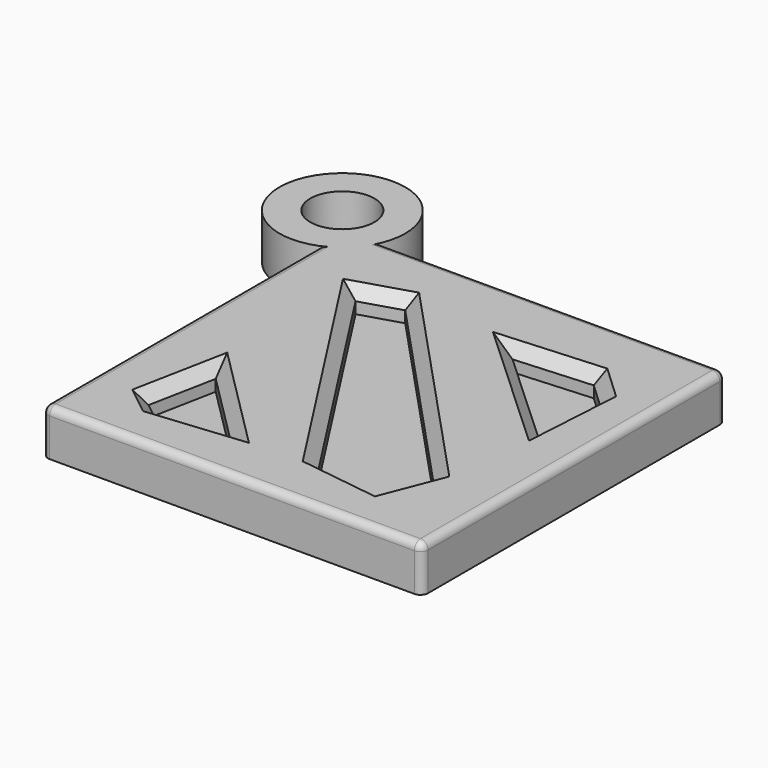
from build123d import *

# Parameters (mm, degrees)
F0_R     = 4.222035
F1_DEPTH = 6
F2_DEPTH = 3
F3_SIZE  = 1.5
F4_R     = 1


with BuildPart() as f1:
    # F0 (on Top) → F1 (new body)
    with BuildSketch(Plane.XY):
        with BuildLine():
            Line((31.328976, 34.585057), (-13.897816, 34.585057))
            ThreePointArc((-13.897816, 34.585057), (-27.394685, 43.53433), (-18.671024, 29.890551))
            Line((-18.671024, 29.890551), (-18.671024, -15.414943))
            Line((-18.671024, -15.414943), (31.328976, -15.414943))
            Line((31.328976, -15.414943), (31.328976, 34.585057))
        make_face()
        Polygon((-10.122895, 2.46298), (-0.055609, -7.604307), (-9.207687, -8.519513), (-11.86179, -6.414536), align=None, mode=Mode.SUBTRACT)
        Polygon((11.018406, -7.146703), (-9.685952, 24.921147), (-4.439394, 26.535474), (22.275463, -2.113059), (19.833142, -8.3599), align=None, mode=Mode.SUBTRACT)
        with Locations((-21.591602, 37.633959)):
            Circle(F0_R, mode=Mode.SUBTRACT)
        Polygon((24.128397, 12.799296), (10.983175, 24.906736), (21.130362, 25.598589), (24.704942, 22.254631), align=None, mode=Mode.SUBTRACT)
    extrude(amount=F1_DEPTH)

    # F0 (on Top) → F2 (join)
    with BuildSketch(Plane.XY):
        with BuildLine():
            Line((31.328976, 34.585057), (-13.897816, 34.585057))
            ThreePointArc((-13.897816, 34.585057), (-27.394685, 43.53433), (-18.671024, 29.890551))
            Line((-18.671024, 29.890551), (-18.671024, -15.414943))
            Line((-18.671024, -15.414943), (31.328976, -15.414943))
            Line((31.328976, -15.414943), (31.328976, 34.585057))
        make_face()
        Polygon((-10.122895, 2.46298), (-0.055609, -7.604307), (-9.207687, -8.519513), (-11.86179, -6.414536), align=None, mode=Mode.SUBTRACT)
        Polygon((11.018406, -7.146703), (-9.685952, 24.921147), (-4.439394, 26.535474), (22.275463, -2.113059), (19.833142, -8.3599), align=None, mode=Mode.SUBTRACT)
        with Locations((-21.591602, 37.633959)):
            Circle(F0_R, mode=Mode.SUBTRACT)
        Polygon((24.128397, 12.799296), (10.983175, 24.906736), (21.130362, 25.598589), (24.704942, 22.254631), align=None, mode=Mode.SUBTRACT)
        Polygon((-4.439394, 26.535474), (-9.685952, 24.921147), (11.018406, -7.146703), (19.833142, -8.3599), (22.275463, -2.113059), align=None)
        Polygon((21.130362, 25.598589), (10.983175, 24.906736), (24.128397, 12.799296), (24.704942, 22.254631), align=None)
        Polygon((-9.207687, -8.519513), (-0.055609, -7.604307), (-10.122895, 2.46298), (-11.86179, -6.414536), align=None)
    extrude(amount=F2_DEPTH)

    # F3
    f3_edges = [f1.edges().sort_by_distance(p)[0] for p in [
        (8.918034, 12.211207, 6),
        (-7.062673, 25.72831, 6),
        (0.666227, 8.887222, 6),
        (15.425774, -7.753301, 6),
        (21.054302, -5.23648, 6),
        (22.917652, 23.92661, 6),
        (16.056768, 25.252663, 6),
        (17.555786, 18.853016, 6),
        (24.416669, 17.526963, 6),
        (-5.089252, -2.570663, 6),
        (-10.992342, -1.975778, 6),
        (-10.534738, -7.467025, 6),
        (-4.631648, -8.06191, 6),
    ]]
    chamfer(f3_edges, length=F3_SIZE)

    # F4
    f4_edges = [f1.edges().sort_by_distance(p)[0] for p in [
        (31.328976, 9.585057, 6),
        (6.328976, -15.414943, 6),
        (8.71558, 34.585057, 6),
        (-18.671024, 7.237804, 6),
        (-18.671024, -15.414943, 3),
        (31.328976, -15.414943, 3),
        (31.328976, 34.585057, 3),
    ]]
    fillet(f4_edges, radius=F4_R)


solid = f1.part
